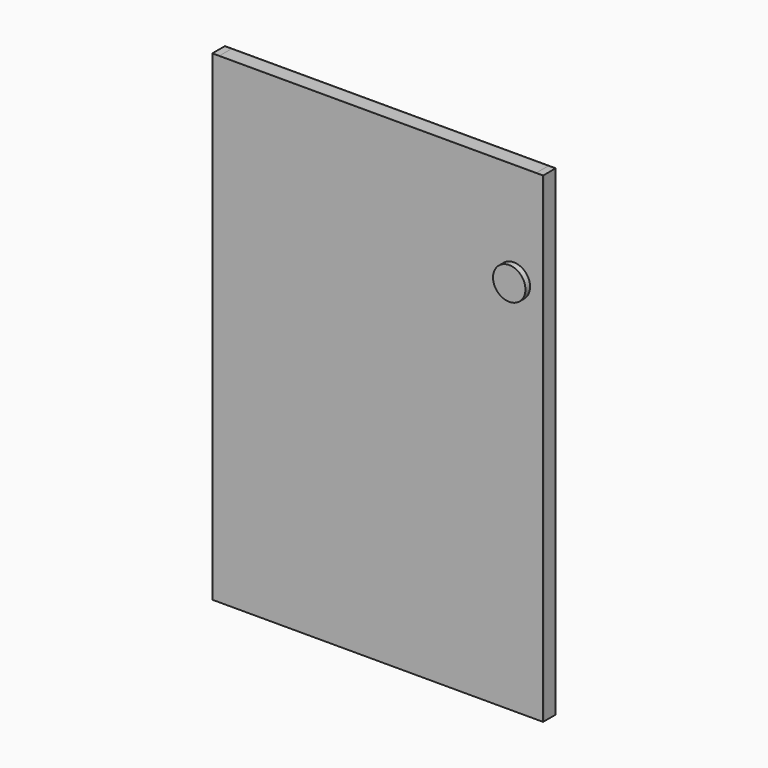
from build123d import *

# Parameters (mm, degrees)
F0_W      = 907
F0_H      = 1319
F1_DEPTH  = 43.25
F2_DEPTH  = 2.81
F3_DEPTH  = 2.81
F5_DEPTH  = 43.251
F6_W      = 3.4
F6_H      = 113.9589877129
F7_DEPTH  = 28
F8_R      = 44.43
F9_DEPTH  = 16
F10_R     = 44.43
F11_DEPTH = 16
F12_W     = 19
F12_H     = 37.63
F13_DEPTH = 1319


with BuildPart() as f1:
    # F0 (on Front) → F1 (new body)
    with BuildSketch(Plane.XZ):
        Rectangle(F0_W, F0_H)
    extrude(amount=F1_DEPTH)


with BuildPart() as f2:
    # F2 (new): a face of the model
    f2_faces = [f1.part.faces().sort_by_distance(p)[0] for p in [
        (0, -43.25, 0),
    ]]
    extrude(f2_faces, amount=-F2_DEPTH)


with BuildPart() as f3:
    # F3 (new): a face of the model
    f3_faces = [f1.part.faces().sort_by_distance(p)[0] for p in [
        (0, 0, 0),
    ]]
    extrude(f3_faces, amount=-F3_DEPTH)


with BuildPart() as f5_tool:
    # F4 (on face) → F5 (new body, through all)
    with BuildSketch(Plane.XZ.offset(43.25)):
        with BuildLine():
            ThreePointArc((417.93, 379.5), (415.2367897113, 394.7336891327), (407.4836671352, 408.1205392689))
            Line((407.4836671352, 408.1205392689), (407.4836671352, 379.5))
            Line((407.4836671352, 379.5), (417.93, 379.5))
        make_face()
        with BuildLine():
            Line((407.4836671352, 379.5), (407.4836671352, 408.1205392689))
            ThreePointArc((407.4836671352, 408.1205392689), (331.7632102887, 364.2663108673), (417.93, 379.5))
            Line((417.93, 379.5), (407.4836671352, 379.5))
        make_face()
    extrude(amount=-F5_DEPTH)


with BuildPart() as f1_1:
    add(f1.part)

    # F5: cut by f5_tool
    add(f5_tool.part, mode=Mode.SUBTRACT)


with BuildPart() as f2_1:
    add(f2.part)

    # F5: cut by f5_tool
    add(f5_tool.part, mode=Mode.SUBTRACT)


with BuildPart() as f3_1:
    add(f3.part)

    # F5: cut by f5_tool
    add(f5_tool.part, mode=Mode.SUBTRACT)


with BuildPart() as f7:
    # F6 (on face) → F7 (new body)
    with BuildSketch(Plane(origin=(0, 0, 0), x_dir=(-1, 0, 0), z_dir=(0, 1, 0))):
        with Locations((451.8, 327.5205061436)):
            Rectangle(F6_W, F6_H)
    extrude(amount=F7_DEPTH)


with BuildPart() as f9:
    # F8 (on face) → F9 (new body)
    with BuildSketch(Plane.XZ.offset(43.25)):
        with Locations((373.5, 379.5)):
            Circle(F8_R)
    extrude(amount=F9_DEPTH)


with BuildPart() as f11:
    # F10 (on face) → F11 (new body)
    with BuildSketch(Plane(origin=(0, 0, 0), x_dir=(-1, 0, 0), z_dir=(0, 1, 0))):
        with Locations((-373.5, 379.5)):
            Circle(F10_R)
    extrude(amount=F11_DEPTH)


with BuildPart() as f13:
    # F12 (on face) → F13 (new body, through all)
    with BuildSketch(Plane.XY.offset(659.5)):
        with Locations((-444, -21.625)):
            Rectangle(F12_W, F12_H)
    extrude(amount=-F13_DEPTH)


with BuildPart() as f13b:
    # F12 (on face) → F13, piece 2 (new body, through all)
    with BuildSketch(Plane.XY.offset(659.5)):
        with Locations((444, -21.625)):
            Rectangle(F12_W, F12_H)
    extrude(amount=-F13_DEPTH)


solid = Compound([f1_1.part, f2_1.part, f3_1.part, f7.part, f9.part, f11.part, f13.part, f13b.part])
